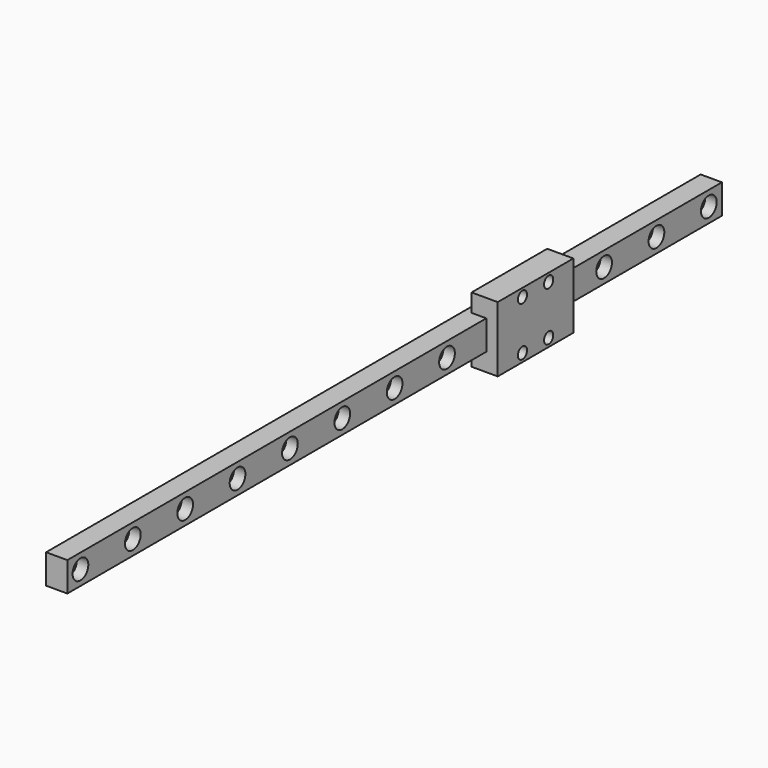
from build123d import *

# Parameters (mm, degrees)
SKETCH030_W             = 9
SKETCH030_H             = 250
PAD016_DEPTH            = 6.5
SKETCH031_R             = 1.75
POCKET012_DEPTH         = 6.5
LINEARPATTERN007_COUNT  = 13
LINEARPATTERN007_PITCH  = 20
SKETCH032_R             = 3
POCKET013_DEPTH         = 3.5
LINEARPATTERN006_COUNT  = 13
LINEARPATTERN006_PITCH  = 20
SKETCH029_W             = 20
SKETCH029_H             = 28.9
SKETCH029_R             = 1.75
PAD017_DEPTH            = 8
BODY007_PLACEMENT_ANGLE = 90


with BuildPart() as part:
    # Sketch030 → Pad016 (new body)
    with BuildSketch(Plane.XY):
        with Locations((0, 125)):
            Rectangle(SKETCH030_W, SKETCH030_H)
    extrude(amount=-PAD016_DEPTH)

    # Sketch031 → Pocket012 (cut)
    with BuildSketch(Plane.XY):
        with Locations((0, 5)):
            Circle(SKETCH031_R)
    pocket012 = extrude(amount=-POCKET012_DEPTH, mode=Mode.SUBTRACT)

    # LinearPattern007: Pocket012 ×13
    with Locations(*[(0, i * LINEARPATTERN007_PITCH, 0) for i in range(1, LINEARPATTERN007_COUNT)]):
        add(pocket012, mode=Mode.SUBTRACT)

    # Sketch032 → Pocket013 (cut)
    with BuildSketch(Plane.XY):
        with Locations((0, 5)):
            Circle(SKETCH032_R)
    pocket013 = extrude(amount=-POCKET013_DEPTH, mode=Mode.SUBTRACT)

    # LinearPattern006: Pocket013 ×13
    with Locations(*[(0, i * LINEARPATTERN006_PITCH, 0) for i in range(1, LINEARPATTERN006_COUNT)]):
        add(pocket013, mode=Mode.SUBTRACT)

    # Sketch029 → Pad017 (join)
    with BuildSketch(Plane.XY.offset(-4.5)):
        with Locations((0, 174.45)):
            Rectangle(SKETCH029_W, SKETCH029_H)
        with Locations((-7.5, 179.45)):
            Circle(SKETCH029_R, mode=Mode.SUBTRACT)
        with Locations((7.5, 179.45)):
            Circle(SKETCH029_R, mode=Mode.SUBTRACT)
        with Locations((7.5, 169.45)):
            Circle(SKETCH029_R, mode=Mode.SUBTRACT)
        with Locations((-7.5, 169.45)):
            Circle(SKETCH029_R, mode=Mode.SUBTRACT)
    extrude(amount=PAD017_DEPTH)


with BuildPart() as part_1:
    # Body007 placement: moved
    add(part.part.moved(Location((-128.5, 0, -15))).rotate(Axis((-128.5, 0, -15), (0, 1, 0)), BODY007_PLACEMENT_ANGLE))


solid = part_1.part
